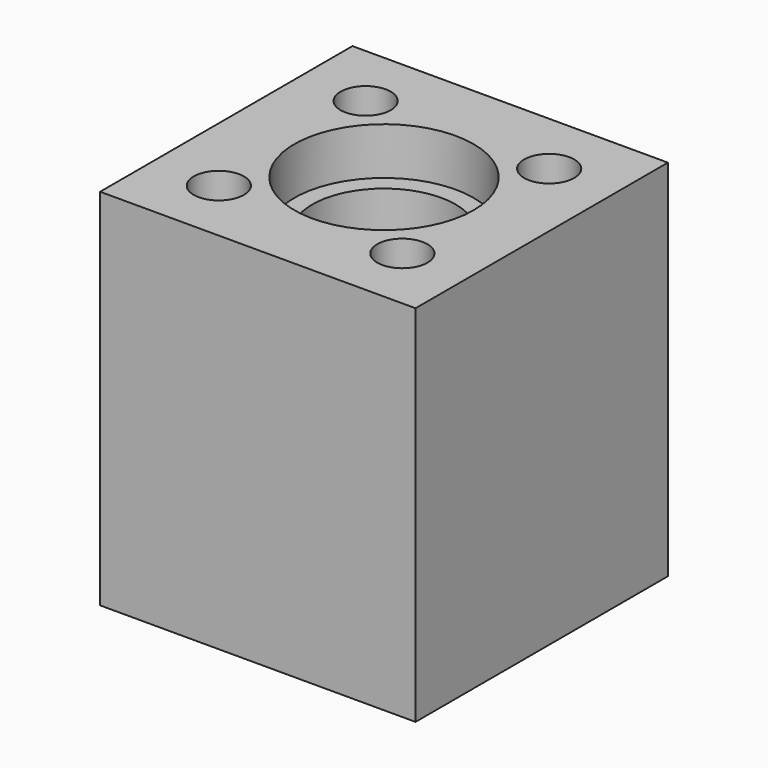
from build123d import *

# Parameters (mm, degrees)
F0_W     = 4.6
F0_H     = 4.6
F0_R     = 6.25
F1_DEPTH = 25.4
F0_R_2   = 5
F2_DEPTH = 22.1
F3_D     = 3.5


with BuildPart() as f1:
    # F0 (on Top) → F1 (new body)
    with BuildSketch(Plane.XY):
        with Locations((8.7, -8.7)):
            Rectangle(F0_W, F0_H)
        Polygon((-6.4, -11), (6.4, -11), (6.4, -6.4), (11, -6.4), (11, 6.4), (6.4, 6.4), (6.4, 11), (-6.4, 11), (-6.4, 6.4), (-11, 6.4), (-11, -6.4), (-6.4, -6.4), align=None)
        Circle(F0_R, mode=Mode.SUBTRACT)
        with Locations((-8.7, -8.7)):
            Rectangle(F0_W, F0_H)
        with Locations((8.7, 8.7)):
            Rectangle(F0_W, F0_H)
        with Locations((-8.7, 8.7)):
            Rectangle(F0_W, F0_H)
    extrude(amount=F1_DEPTH)

    # F0 (on Top) → F2 (join)
    with BuildSketch(Plane.XY):
        Circle(F0_R)
        Circle(F0_R_2, mode=Mode.SUBTRACT)
    extrude(amount=F2_DEPTH)

    # F3 (through all)
    with Locations(Plane(origin=(0, 0, 0), x_dir=(1, 0, 0), z_dir=(0, 0, -1))):
        with Locations((-6.4, -6.4), (-6.4, 6.4), (6.4, -6.4), (6.4, 6.4)):
            Hole(F3_D / 2)


solid = f1.part
